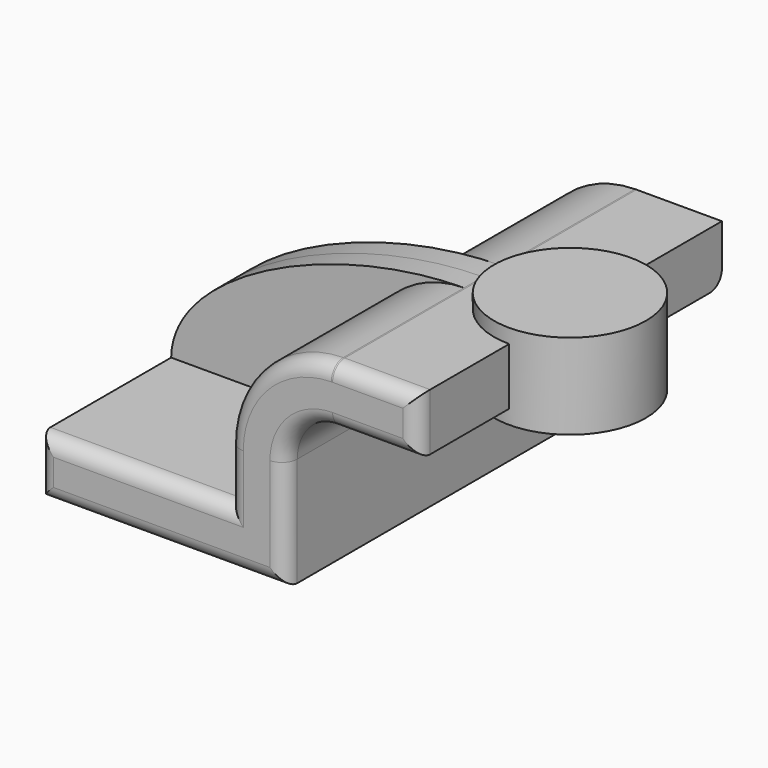
from build123d import *

# Parameters (mm, degrees)
F1_DEPTH = 63.5
F0_W     = 25.4
F0_H     = 19.05
F2_DEPTH = 63.5
F3_DEPTH = 7.9375
F5_R     = 5.08


with BuildPart() as f1:
    # F0 (on Front) → F1 (new body, symmetric)
    with BuildSketch(Plane.XZ):
        Polygon((-41.275, 9.525), (-41.275, -9.525), (41.275, -9.525), (41.275, 9.525), (22.225, 9.525), align=None)
    extrude(amount=F1_DEPTH, both=True)

    # F0 (on Front) → F2 (join, symmetric)
    with BuildSketch(Plane.XZ):
        with BuildLine():
            Line((22.225, 9.525), (41.275, 9.525))
            Line((41.275, 9.525), (41.275, 27.0002))
            ThreePointArc((41.275, 27.0002), (45.9246798487, 38.2255201513), (57.15, 42.8752))
            Line((57.15, 42.8752), (60.325, 42.8752))
            Line((60.325, 42.8752), (60.325, 61.9252))
            Line((60.325, 61.9252), (57.15, 61.9252))
            add(Edge.make_bspline(
                [(56.6897359672, 61.9221670411), (56.8432487019, 61.9234663989), (56.9966708454, 61.9244776876), (57.15, 61.9252)],
                knots=[111.1247319335, 111.1247319335, 111.1247319335, 111.1247319335, 111.5045361635, 111.5045361635, 111.5045361635, 111.5045361635], degree=3))
            ThreePointArc((56.6897359672, 61.9221670411), (32.2921003869, 51.5326367283), (22.225, 27.0002))
            Line((22.225, 27.0002), (22.225, 9.525))
        make_face()
        with Locations((73.025, 52.4002)):
            Rectangle(F0_W, F0_H)
    extrude(amount=F2_DEPTH, both=True)

    # F0 (on Front) → F3 (join, symmetric)
    with BuildSketch(Plane.XZ):
        with BuildLine():
            add(Edge.make_bspline(
                [(-41.275, 9.525), (-40.8962016322, 36.5015194538), (11.7743291488, 61.5419954401), (56.6897359672, 61.9221670411)],
                knots=[0, 0, 0, 0, 111.1247319335, 111.1247319335, 111.1247319335, 111.1247319335], degree=3))
            Line((-41.275, 9.525), (22.225, 9.525))
            Line((22.225, 9.525), (22.225, 27.0002))
            ThreePointArc((22.225, 27.0002), (32.2921003869, 51.5326367283), (56.6897359672, 61.9221670411))
        make_face()
    extrude(amount=F3_DEPTH, both=True)

    # F0 (on Front) → F4 (revolve)
    with BuildSketch(Plane.XZ):
        Polygon((85.725, 66.675), (85.725, 61.9252), (85.725, 42.8752), (85.725, 38.1), (111.125, 38.1), (111.125, 66.675), align=None)
    revolve(axis=Axis((85.725, 0, 52.3875), (0, 0, 1)))

    # F5
    f5_edges = [f1.edges().sort_by_distance(p)[0] for p in [
        (-41.275, -63.5, 0),
        (0, -63.5, -9.525),
        (41.275, -63.5, 8.7376),
        (45.92468, -63.5, 38.22552),
        (71.4375, -63.5, 42.8752),
        (85.725, -63.5, 52.4002),
        (71.4375, -63.5, 61.9252),
        (56.919867, -63.5, 61.923899),
        (32.2921, -63.5, 51.532637),
        (22.225, -63.5, 18.2626),
        (-9.525, -63.5, 9.525),
        (41.275, 63.5, 8.7376),
        (-41.275, 63.5, 0),
    ]]
    fillet(f5_edges, radius=F5_R)


solid = f1.part
